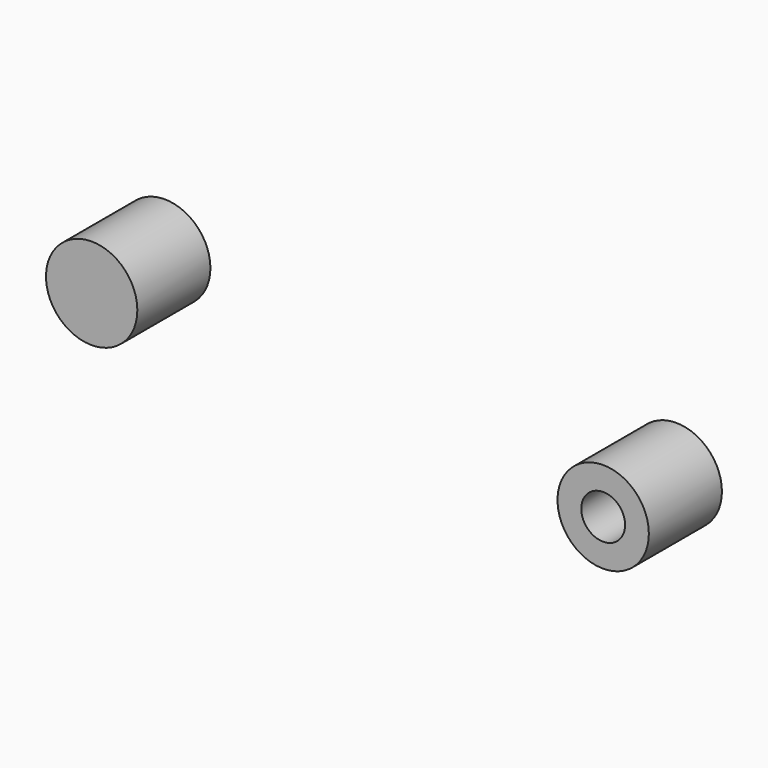
from build123d import *

# Parameters (mm, degrees)
F2_R     = 12.5
F2_R_2   = 6
F3_DEPTH = 25
F4_DEPTH = 12.5


with BuildPart() as f3:
    # F2 (on Front) → F3 (new body)
    with BuildSketch(Plane.XZ):
        with Locations((-12.5, 0)):
            Circle(F2_R)
        with Locations((-12.5, 0)):
            Circle(F2_R_2, mode=Mode.SUBTRACT)
        with Locations((-12.5, 0)):
            Circle(F2_R_2)
    extrude(amount=-F3_DEPTH)


with BuildPart() as f4:
    # F2 (on Front) → F4 (new body, symmetric)
    with BuildSketch(Plane.XZ):
        with Locations((137.5, 0)):
            Circle(F2_R)
        with Locations((137.5, 0)):
            Circle(F2_R_2, mode=Mode.SUBTRACT)
    extrude(amount=F4_DEPTH, both=True)


solid = Compound([f3.part, f4.part])
